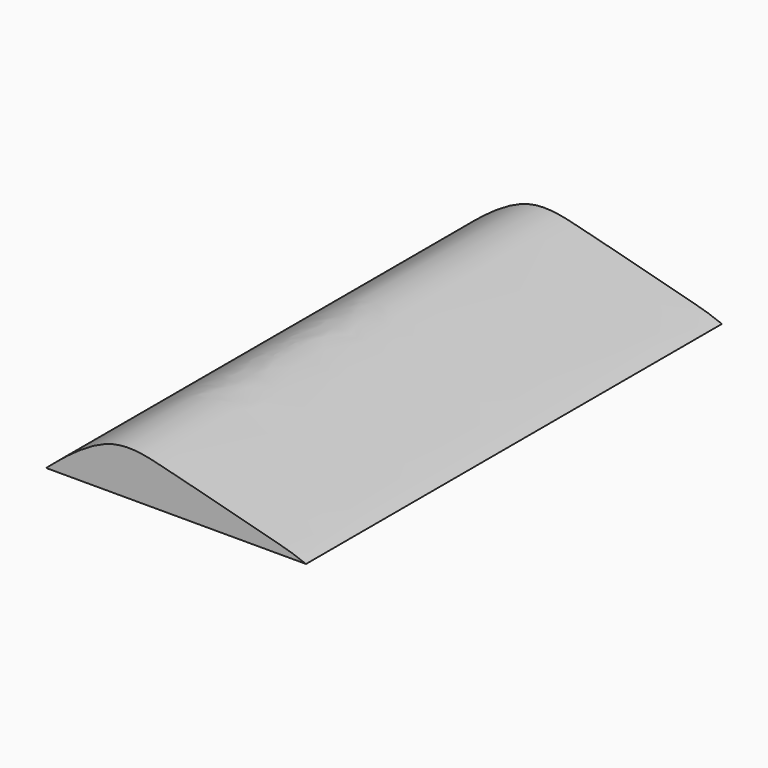
from build123d import *

# Parameters (mm, degrees)
F1_DEPTH = 2438.4


with BuildPart() as f1:
    # F0 (on Front) → F1 (new body)
    with BuildSketch(Plane.XZ):
        with BuildLine():
            add(Edge.make_bspline(
                [(-858.6020748116, 0), (-771.527152403, 74.9075926936), (-564.3153271842, 247.2975159324), (-305.0198979268, 180.7772617281), (-74.389343901, 123.1833049346), (169.8708501994, 57.1238070122), (298.620683407, 25.7218013878), (360.5979251884, 0)],
                knots=[0, 0, 0, 0, 0.2378204375, 0.433634272, 0.6271035012, 0.8242648006, 1, 1, 1, 1], degree=3))
            Line((-858.6020748116, 0), (360.5979251884, 0))
        make_face()
    extrude(amount=F1_DEPTH)


solid = f1.part
